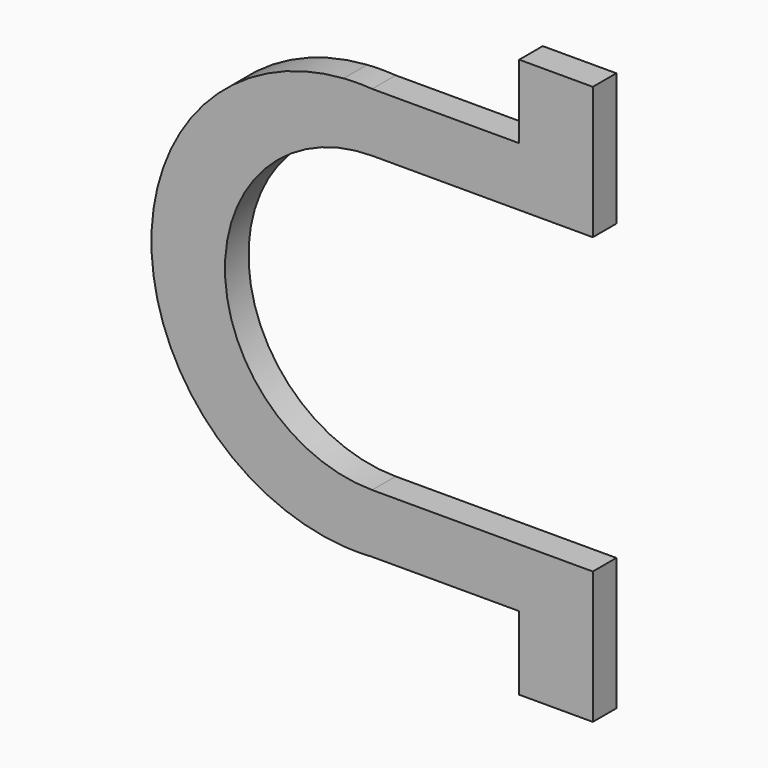
from build123d import *

# Parameters (mm, degrees)
F0_W     = 63.5
F0_H     = 63.5
F1_DEPTH = 25.4


with BuildPart() as f1:
    # F0 (on Front) → F1 (new body)
    with BuildSketch(Plane.XZ):
        with Locations((158.75, -209.55)):
            Rectangle(F0_W, F0_H)
        with BuildLine():
            Line((127, -177.8), (190.5, -177.8))
            Line((190.5, -177.8), (190.5, -127))
            Line((190.5, -127), (0, -127))
            ThreePointArc((0, -127), (-127, 0), (0, 127))
            Line((0, 127), (63.5, 127))
            Line((63.5, 127), (190.5, 127))
            Line((190.5, 127), (190.5, 177.8))
            Line((190.5, 177.8), (127, 177.8))
            Line((127, 177.8), (0, 177.8))
            Line((0, 177.8), (-24.553333, 177.8))
            ThreePointArc((-24.553333, 177.8), (-190.5, 0), (-24.553333, -177.8))
            Line((-24.553333, -177.8), (0, -177.8))
            Line((0, -177.8), (127, -177.8))
        make_face()
        with BuildLine():
            ThreePointArc((-24.553333, -177.8), (-12.276667, -178.223333), (0, -177.8))
            Line((0, -177.8), (-24.553333, -177.8))
        make_face()
        with BuildLine():
            ThreePointArc((0, 177.8), (-12.276667, 178.223333), (-24.553333, 177.8))
            Line((-24.553333, 177.8), (0, 177.8))
        make_face()
        with Locations((158.75, 209.55)):
            Rectangle(F0_W, F0_H)
    extrude(amount=F1_DEPTH)


solid = f1.part
